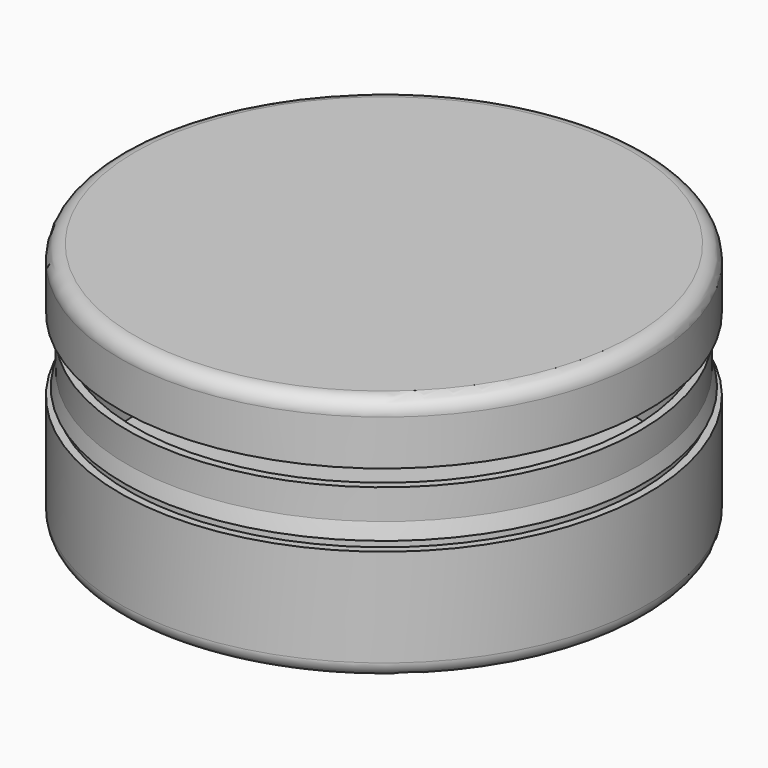
from build123d import *

# Parameters (mm, degrees)
F2_R = 2


with BuildPart() as f1:
    # F0 (on Front) → F1 (revolve)
    with BuildSketch(Plane.XZ):
        Polygon((-35, -0.072111), (0, -0.072111), (0, 1.927889), (-33, 1.927889), (-33, 21.927889), (-33.999902, 21.913878), (-34, 17.913878), (-34.5, 15.913878), (-34, 15.913878), (-34, 14.913878), (-35, 14.913878), align=None)
        Polygon((0, 32.625808), (-35, 32.625808), (-35, 24.625808), (-34, 24.625808), (-34, 25.425808), (-34, 25.625808), (-34, 31.625808), (0, 31.625808), align=None)
        Polygon((-34, 25.625808), (-34, 25.425808), (-33.866413, 25.536358), align=None)
    revolve(axis=Axis((0, 0, 0.927889), (0, 0, -1)))

    # F2
    f2_edges = [f1.edges().sort_by_distance(p)[0] for p in [
        (35, 0, 32.625808),
        (35, 0, -0.072111),
    ]]
    fillet(f2_edges, radius=F2_R)


solid = f1.part
